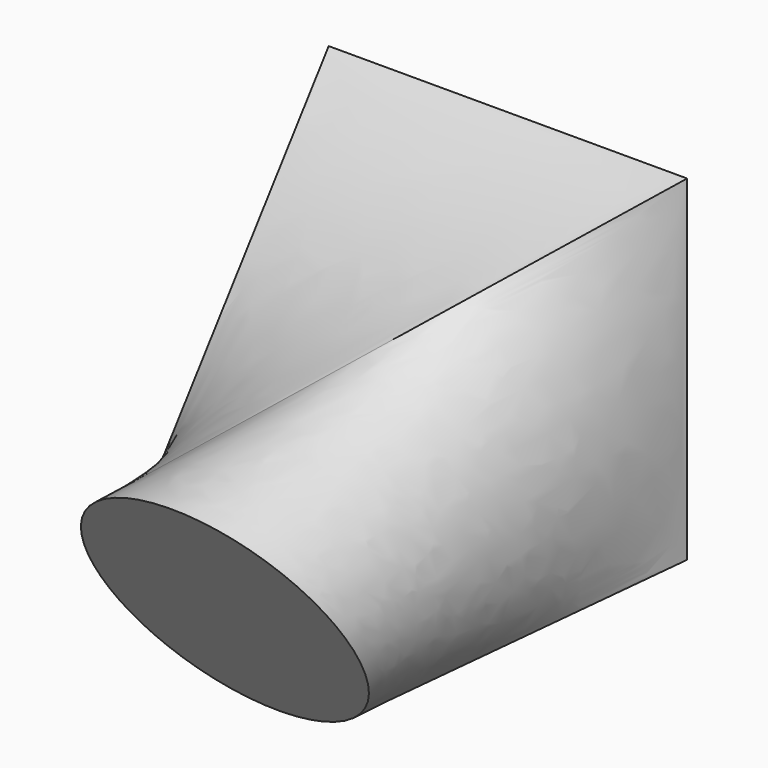
from build123d import *

# Parameters (mm, degrees)
SKETCH001_W = 70.920502
SKETCH001_H = 66.428588


with BuildPart() as part:
    # Sketch001 → Loft section 0
    with BuildSketch(Plane.XZ.offset(-70)):
        Rectangle(SKETCH001_W, SKETCH001_H)
    # Sketch → Loft section 1
    with BuildSketch(Plane(origin=(0, 0, -25), x_dir=(1, 0, 0), z_dir=(0, -0.866025, -0.5))):
        with BuildLine():
            ThreePointArc((19.618861, -17.760701), (17.712533, 19.662359), (-19.70574, 17.664258))
            ThreePointArc((-19.70574, 17.664258), (-25.754937, 6.08485), (-25.52758, -6.977453))
            ThreePointArc((-25.52758, -6.977453), (-22.954079, -13.170135), (-18.90659, -18.517101))
            ThreePointArc((-18.90659, -18.517101), (0.519488, -26.45888), (19.618861, -17.760701))
        make_face()
    loft()


solid = part.part
